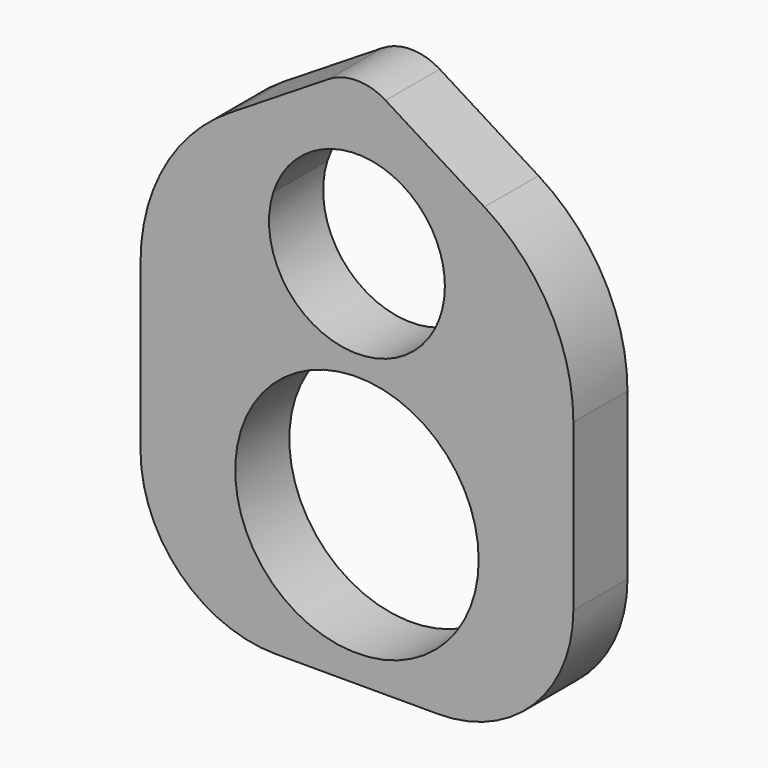
from build123d import *

# Parameters (mm, degrees)
F0_R     = 45
F1_DEPTH = 25
F2_R     = 50
F3_R     = 70
F4_R     = 20


with BuildPart() as f1:
    # F0 (on Front) → F1 (new body)
    with BuildSketch(Plane.XZ):
        with BuildLine():
            Line((0, 125), (-80, 75))
            Line((-80, 75), (-30.923292, 75))
            ThreePointArc((-30.923292, 75), (0, 97.5), (30.923292, 75))
            Line((30.923292, 75), (80, 75))
            Line((80, 75), (0, 125))
        make_face()
        with BuildLine():
            Line((-30.923292, 75), (-80, 75))
            Line((-80, 75), (-80, -75))
            Line((-80, -75), (80, -75))
            Line((80, -75), (80, 75))
            Line((80, 75), (30.923292, 75))
            ThreePointArc((30.923292, 75), (32.103403, 70.061769), (32.5, 65))
            ThreePointArc((32.5, 65), (-5.061769, 32.896597), (-30.923292, 75))
        make_face()
        with Locations((0, -20)):
            Circle(F0_R, mode=Mode.SUBTRACT)
    extrude(amount=F1_DEPTH)

    # F2
    f2_edges = [f1.edges().sort_by_distance(p)[0] for p in [
        (-80, -12.5, -75),
        (80, -12.5, -75),
    ]]
    fillet(f2_edges, radius=F2_R)

    # F3
    f3_edges = [f1.edges().sort_by_distance(p)[0] for p in [
        (80, -12.5, 75),
        (-80, -12.5, 75),
    ]]
    fillet(f3_edges, radius=F3_R)

    # F4
    f4_edges = [f1.edges().sort_by_distance(p)[0] for p in [
        (0, -12.5, 125),
    ]]
    fillet(f4_edges, radius=F4_R)


solid = f1.part
